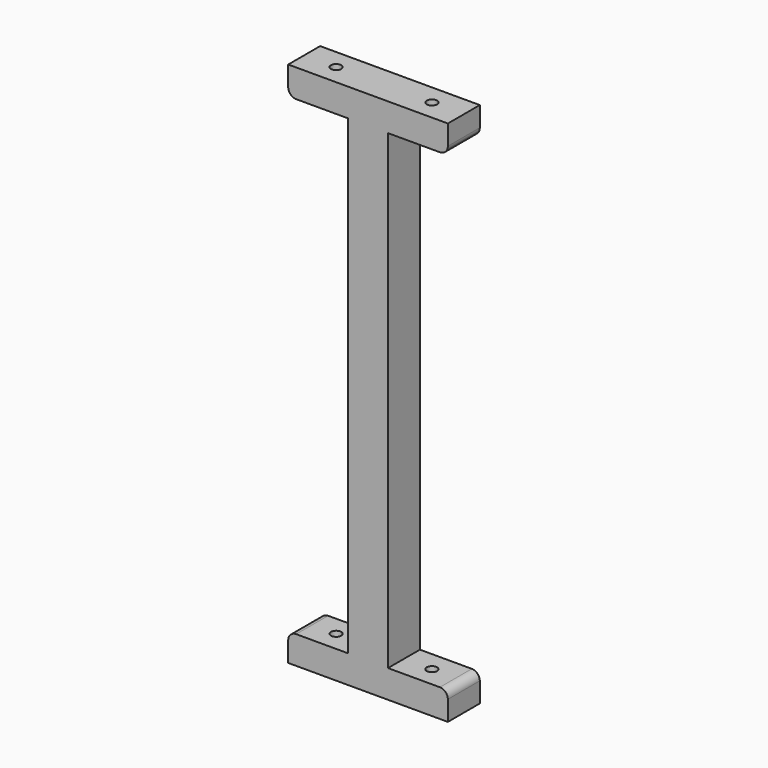
from build123d import *

# Parameters (mm, degrees)
CYLINDER024_R     = 1.3
CYLINDER024_DEPTH = 146
CYLINDER023_R     = 1.3
CYLINDER023_DEPTH = 146
BOX089_W          = 15
BOX089_H          = 10
BOX089_DEPTH      = 7
BOX090_W          = 10
BOX090_H          = 10
BOX090_DEPTH      = 132
BOX091_W          = 15
BOX091_H          = 10
BOX091_DEPTH      = 7
BOX088_W          = 15
BOX088_H          = 10
BOX088_DEPTH      = 7
BOX087_W          = 15
BOX087_H          = 10
BOX087_DEPTH      = 7
FILLET005_R       = 2


with BuildPart() as cilindro024:
    # Cylinder024 → Cylinder024 (new body)
    with BuildSketch(Plane(origin=(182, 5, 8), x_dir=(1, 0, 0), z_dir=(0, 0, 1))):
        Circle(CYLINDER024_R)
    extrude(amount=CYLINDER024_DEPTH)


with BuildPart() as cilindro023:
    # Cylinder023 → Cylinder023 (new body)
    with BuildSketch(Plane(origin=(158, 5, 8), x_dir=(1, 0, 0), z_dir=(0, 0, 1))):
        Circle(CYLINDER023_R)
    extrude(amount=CYLINDER023_DEPTH)


with BuildPart() as cubo052:
    # Box089 → Box089 (new body)
    with BuildSketch(Plane(origin=(175, 0, 15), x_dir=(1, 0, 0), z_dir=(0, 0, 1))):
        with Locations((7.5, 5)):
            Rectangle(BOX089_W, BOX089_H)
    extrude(amount=BOX089_DEPTH)


with BuildPart() as cubo053:
    # Box090 → Box090 (new body)
    with BuildSketch(Plane(origin=(165, 0, 15), x_dir=(1, 0, 0), z_dir=(0, 0, 1))):
        with Locations((5, 5)):
            Rectangle(BOX090_W, BOX090_H)
    extrude(amount=BOX090_DEPTH)


with BuildPart() as cubo054:
    # Box091 → Box091 (new body)
    with BuildSketch(Plane(origin=(150, 0, 15), x_dir=(1, 0, 0), z_dir=(0, 0, 1))):
        with Locations((7.5, 5)):
            Rectangle(BOX091_W, BOX091_H)
    extrude(amount=BOX091_DEPTH)


with BuildPart() as cubo051:
    # Box088 → Box088 (new body)
    with BuildSketch(Plane(origin=(150, 0, 140), x_dir=(1, 0, 0), z_dir=(0, 0, 1))):
        with Locations((7.5, 5)):
            Rectangle(BOX088_W, BOX088_H)
    extrude(amount=BOX088_DEPTH)


with BuildPart() as obj1:
    # Box087 → Box087 (new body)
    with BuildSketch(Plane(origin=(175, 0, 140), x_dir=(1, 0, 0), z_dir=(0, 0, 1))):
        with Locations((7.5, 5)):
            Rectangle(BOX087_W, BOX087_H)
    extrude(amount=BOX087_DEPTH)

    # Fusion013: union Cubo052, Cubo053, Cubo054, Cubo051
    add(cubo052.part)
    add(cubo053.part)
    add(cubo054.part)
    add(cubo051.part)

    # Fillet005
    fillet005_edges = [obj1.edges().sort_by_distance(p)[0] for p in [
        (190, 5, 140),
        (190, 5, 22),
        (150, 5, 22),
        (150, 5, 140),
    ]]
    fillet(fillet005_edges, radius=FILLET005_R)

    # Cut038: cut Cilindro023
    add(cilindro023.part, mode=Mode.SUBTRACT)

    # Cut037: cut Cilindro024
    add(cilindro024.part, mode=Mode.SUBTRACT)


with BuildPart() as obj1_1:
    # Cut037 placement: moved
    add(obj1.part.moved(Location((0, 220, 0))))


solid = obj1_1.part
